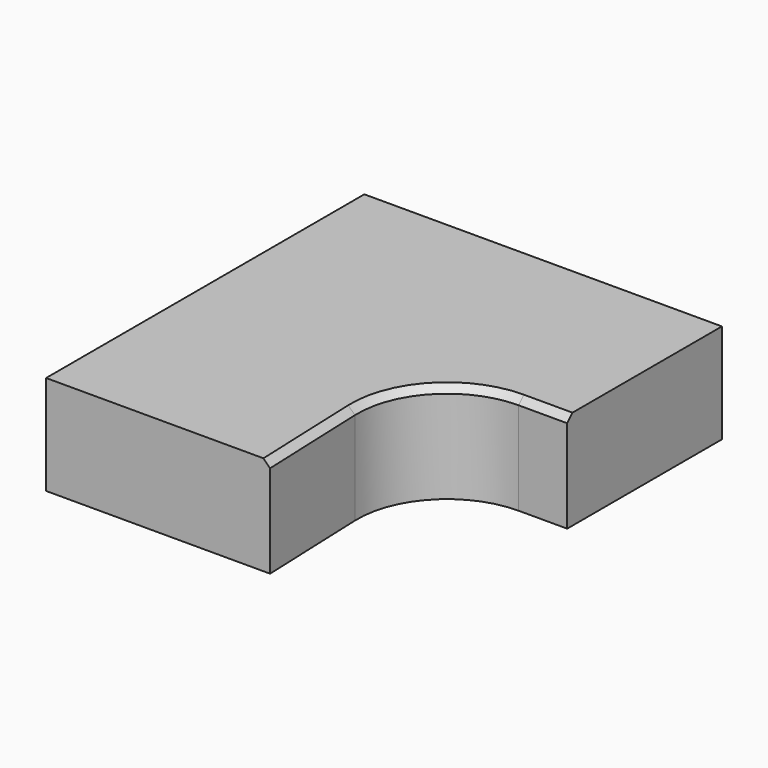
from build123d import *

# Parameters (mm, degrees)
F1_DEPTH = 76.2
F2_R     = 68.4578192755
F3_SIZE  = 5.08
F4_T     = -2.54
F5_R     = 23.8881657529


with BuildPart() as f1:
    # F0 (on Top) → F1 (new body)
    with BuildSketch(Plane.XY):
        Polygon((-147.3665168505, 191.0085547507), (-147.3665168505, -113.7914452493), (24.251197043, -113.7914452493), (18.1496212227, 42.8132099656), (126.6276255479, 42.8132099656), (126.6276255479, 191.0085547507), align=None)
    extrude(amount=F1_DEPTH)

    # F2
    f2_edges = [f1.edges().sort_by_distance(p)[0] for p in [
        (18.149621, 42.81321, 38.1),
    ]]
    fillet(f2_edges, radius=F2_R)

    # F3
    f3_edges = [f1.edges().sort_by_distance(p)[0] for p in [
        (22.585944, -71.050631, 76.2),
    ]]
    chamfer(f3_edges, length=F3_SIZE)

    # F4
    f4_openings = [f1.faces().sort_by_distance(p)[0] for p in [
        (-30.069357, 56.198689, 0),
        (-10.369446, 191.008555, 38.1),
    ]]
    offset(amount=F4_T, openings=f4_openings)

    # F5
    f5_edges = [f1.edges().sort_by_distance(p)[0] for p in [
        (124.087626, 119.976934, 73.66),
    ]]
    fillet(f5_edges, radius=F5_R)


solid = f1.part
